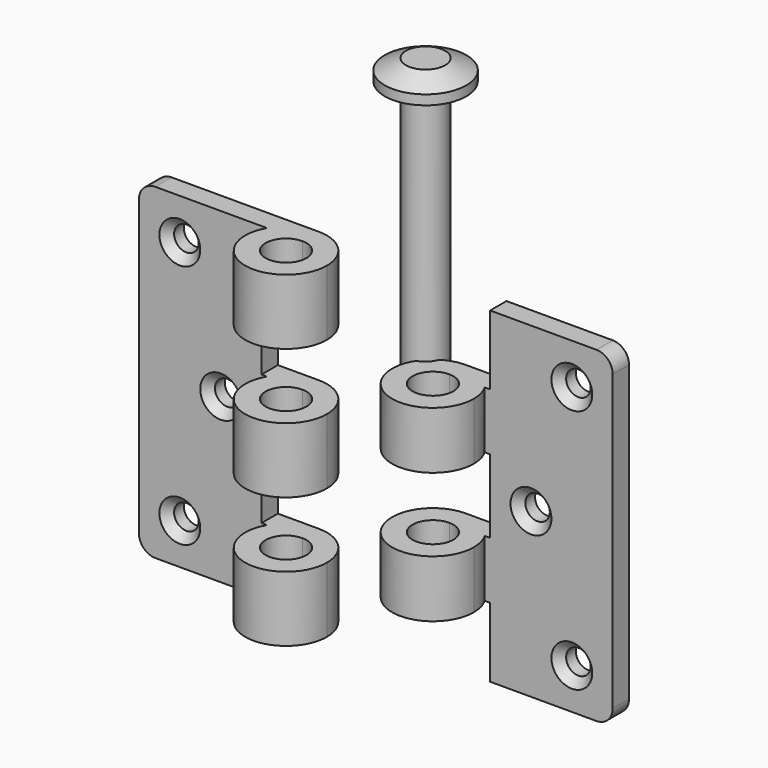
from build123d import *

# Parameters (mm, degrees)
F0_W            = 25.4
F0_H            = 50.8
F1_DEPTH        = 3.175
F3_DEPTH        = 50.8
F5_R            = 2.54
F6_W            = 6.35
F6_H            = 10.16
F7_DEPTH        = 25.4
F8_W            = 25.4
F8_H            = 50.8
F9_DEPTH        = 3.175
F11_DEPTH       = 50.8
F12_W           = 6.35
F12_H           = 10.795
F12_H_2         = 11.43
F13_DEPTH       = 25.4
F17_D           = 3.81
F17_CSINK_D     = 6.35
F17_CSINK_ANGLE = 90
F18_D           = 3.81
F18_CSINK_D     = 6.35
F18_CSINK_ANGLE = 90
F19_R           = 2.54


with BuildPart() as f1:
    # F0 (on Front) → F1 (new body)
    with BuildSketch(Plane.XZ):
        with Locations((-31.9105814096, 12.6281981356)):
            Rectangle(F0_W, F0_H)
    extrude(amount=F1_DEPTH)

    # F2 (on face) → F3 (join, through all)
    with BuildSketch(Plane.XY.offset(38.0281981356)):
        with BuildLine():
            ThreePointArc((-24.7098427237, -3.175), (-20.854082346, -12.4836289969), (-12.8605814096, -6.35))
            ThreePointArc((-12.8605814096, -6.35), (-14.7204533491, -1.8598719395), (-19.2105814096, 0))
            Line((-19.2105814096, 0), (-19.2105814096, -3.175))
            Line((-19.2105814096, -3.175), (-24.7098427237, -3.175))
        make_face()
        with BuildLine():
            ThreePointArc((-16.0355814096, -6.35), (-21.4556454399, -8.5950640303), (-19.2105814096, -3.175))
            ThreePointArc((-19.2105814096, -3.175), (-16.9655173794, -4.1049359697), (-16.0355814096, -6.35))
        make_face(mode=Mode.SUBTRACT)
        with BuildLine():
            Line((-19.2105814096, -3.175), (-19.2105814096, 0))
            ThreePointArc((-19.2105814096, 0), (-22.3855814096, -0.850738686), (-24.7098427237, -3.175))
            Line((-24.7098427237, -3.175), (-19.2105814096, -3.175))
        make_face()
    extrude(amount=-F3_DEPTH)

    # F5
    f5_edges = [f1.edges().sort_by_distance(p)[0] for p in [
        (-44.610581, -1.5875, 38.028198),
        (-44.610581, -1.5875, -12.771802),
    ]]
    fillet(f5_edges, radius=F5_R)

    # F6 (on face) → F7 (cut)
    with BuildSketch(Plane.XZ):
        with Locations((-22.3855814096, 22.7881981356)):
            Rectangle(F6_W, F6_H)
        with Locations((-16.0355814096, 22.7881981356)):
            Rectangle(F6_W, F6_H)
        with Locations((-22.3855814096, 2.4681981356)):
            Rectangle(F6_W, F6_H)
        with Locations((-16.0355814096, 2.4681981356)):
            Rectangle(F6_W, F6_H)
    extrude(amount=F7_DEPTH, mode=Mode.SUBTRACT)

    # F17 (through all)
    with Locations(Plane.XZ.offset(3.175)):
        with Locations((-38.2605814096, 31.6781981356), (-31.9105814096, 12.6281981356), (-38.2605814096, -6.4218018644)):
            CounterSinkHole(F17_D / 2, F17_CSINK_D / 2, counter_sink_angle=F17_CSINK_ANGLE)


with BuildPart() as f9:
    # F8 (on Front) → F9 (new body)
    with BuildSketch(Plane.XZ):
        with Locations((16.3210542523, 12.6281981356)):
            Rectangle(F8_W, F8_H)
    extrude(amount=F9_DEPTH)

    # F10 (on face) → F11 (join, through all)
    with BuildSketch(Plane.XY.offset(38.0281981356)):
        with BuildLine():
            Line((3.6210542523, -3.175), (3.6210542523, 0))
            ThreePointArc((3.6210542523, 0), (-0.8690738082, -10.8401280605), (9.9710542523, -6.35))
            ThreePointArc((9.9710542523, -6.35), (9.7546832493, -4.7064990636), (9.1203155664, -3.175))
            Line((9.1203155664, -3.175), (3.6210542523, -3.175))
        make_face()
        with BuildLine():
            ThreePointArc((6.7960542523, -6.35), (1.3759902221, -8.5950640303), (3.6210542523, -3.175))
            ThreePointArc((3.6210542523, -3.175), (5.8661182826, -4.1049359697), (6.7960542523, -6.35))
        make_face(mode=Mode.SUBTRACT)
        with BuildLine():
            Line((3.6210542523, -3.175), (3.6210542523, 0))
            ThreePointArc((3.6210542523, 0), (-0.8690738082, -10.8401280605), (9.9710542523, -6.35))
            ThreePointArc((9.9710542523, -6.35), (9.7546832493, -4.7064990636), (9.1203155664, -3.175))
            Line((9.1203155664, -3.175), (3.6210542523, -3.175))
        make_face()
        with BuildLine():
            ThreePointArc((6.7960542523, -6.35), (1.3759902221, -8.5950640303), (3.6210542523, -3.175))
            ThreePointArc((3.6210542523, -3.175), (5.8661182826, -4.1049359697), (6.7960542523, -6.35))
        make_face(mode=Mode.SUBTRACT)
    extrude(amount=-F11_DEPTH)

    # F12 (on face) → F13 (cut)
    with BuildSketch(Plane(origin=(0, 0, 0), x_dir=(-1, 0, 0), z_dir=(0, 1, 0))):
        with Locations((-0.4460542523, 32.6306981356)):
            Rectangle(F12_W, F12_H)
        with Locations((-6.7960542523, 32.6306981356)):
            Rectangle(F12_W, F12_H)
        with Locations((-6.7960542523, 12.6281981356)):
            Rectangle(F12_W, F12_H_2)
        with Locations((-0.4460542523, 12.6281981356)):
            Rectangle(F12_W, F12_H_2)
        with Locations((-0.4460542523, -7.3743018644)):
            Rectangle(F12_W, F12_H)
        with Locations((-6.7960542523, -7.3743018644)):
            Rectangle(F12_W, F12_H)
    extrude(amount=-F13_DEPTH, mode=Mode.SUBTRACT)

    # F18 (through all)
    with Locations(Plane.XZ.offset(3.175)):
        with Locations((22.6710542523, 31.6781981356), (16.3210542523, 12.6281981356), (22.6710542523, -6.4218018644)):
            CounterSinkHole(F18_D / 2, F18_CSINK_D / 2, counter_sink_angle=F18_CSINK_ANGLE)

    # F19
    f19_edges = [f9.edges().sort_by_distance(p)[0] for p in [
        (29.021054, -1.5875, 38.028198),
        (29.021054, -1.5875, -12.771802),
    ]]
    fillet(f19_edges, radius=F19_R)


with BuildPart() as f15:
    # F14 (on Front) → F15 (revolve)
    with BuildSketch(Plane.XZ):
        Polygon((-8.9555652812, 64.0162163931), (-5.6535652812, 64.0162163931), (-5.6535652812, 16.3912163931), (-2.6055652812, 16.3912163931), (-2.6055652812, 67.1912163931), (-5.6535652812, 67.1912163931), (-8.9555652812, 65.5202418566), align=None)
    revolve(axis=Axis((-2.6055652812, 0, 41.7912163931), (0, 0, 1)))


solid = Compound([f1.part, f9.part, f15.part])
